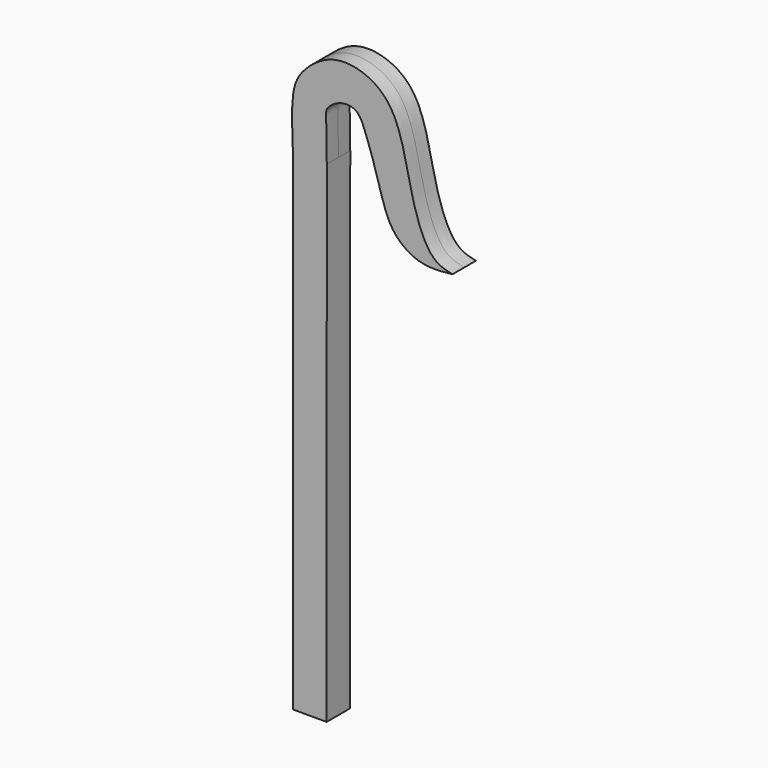
from build123d import *

# Parameters (mm, degrees)
F1_DEPTH = 10.16
F2_DEPTH = 10.16


with BuildPart() as f1:
    # F0 (on Front) → F1 (new body)
    with BuildSketch(Plane.XZ):
        with BuildLine():
            add(Edge.make_bspline(
                [(10.5592533946, 351.1839807034), (10.4695804772, 362.2397616149), (10.3379149951, 378.4728090705), (9.7360376148, 385.5270541931), (19.2131343725, 392.7085587466), (32.0804052727, 392.1229848008), (37.8562186443, 378.3041881788), (47.1232515746, 351.0337093949), (53.4121597084, 324.9371769494), (74.4654499748, 309.8701281314), (89.9305831262, 311.4917079437), (97.6424217224, 312.30032444)],
                knots=[0, 0, 0, 0, 0.1386962725, 0.2036457841, 0.2884633477, 0.3753380517, 0.4708961009, 0.613286711, 0.7494226975, 0.8750471985, 1, 1, 1, 1], degree=3))
            add(Edge.make_bspline(
                [(97.6424217224, 312.30032444), (93.2895767735, 313.2374462492), (82.0519688116, 315.6567852397), (68.0655444832, 348.9434690674), (61.1459988736, 402.9074772139), (31.6413052957, 418.6019174353), (10.146283367, 416.9449132033), (-7.369202363, 402.7523547121), (-14.4361515415, 387.3992123411), (-13.4977264475, 364.7906029996), (-12.9329506308, 351.1839807034)],
                knots=[0, 0, 0, 0, 0.089206328, 0.2303012751, 0.4082805925, 0.5381818337, 0.6471509846, 0.757459556, 0.8540309949, 1, 1, 1, 1], degree=3))
            Line((-12.9329506308, 351.1839807034), (-12.9329506308, 10.9654702246))
            Line((-12.9329506308, 10.9654702246), (10.4695804772, 10.9654702246))
            Line((10.4695804772, 10.9654702246), (10.5592533946, 351.1839807034))
        make_face()
    extrude(amount=F1_DEPTH)

    # F2 (add): a face of the model
    f2_faces = [f1.faces().sort_by_distance(p)[0] for p in [
        (-8.7203777057, 0, 181.074725464),
    ]]
    extrude(f2_faces, amount=F2_DEPTH)


solid = f1.part
